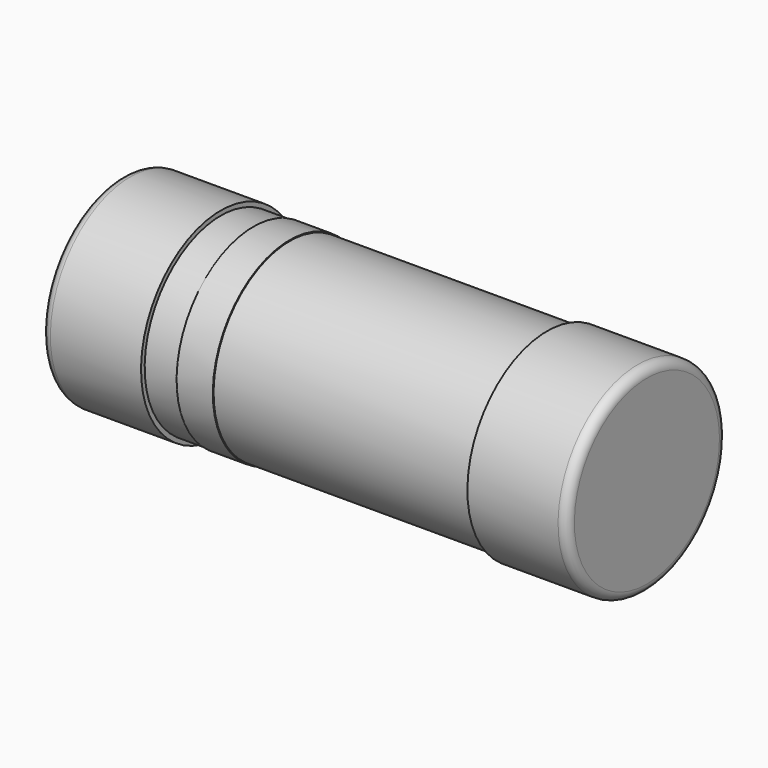
from build123d import *

# Parameters (mm, degrees)
SKETCH_W    = 4.7
SKETCH_H    = 1.05
SKETCH002_W = 0.4
SKETCH002_H = 1.06


with BuildPart() as revolution001:
    # Sketch001 → Revolution001 (revolve)
    with BuildSketch(Plane.XZ):
        with BuildLine():
            Line((-2.8, 0), (-1.8, 0))
            Line((-1.8, 0), (-1.8, 1))
            Line((-1.8, 1), (1.8, 1))
            Line((1.8, 0), (1.8, 1))
            Line((1.8, 0), (2.8, 0))
            ThreePointArc((2.8, 0), (2.870711, 0.029289), (2.9, 0.1))
            Line((2.9, 0.1), (2.9, 1.1))
            Line((-2.9, 1.1), (2.9, 1.1))
            Line((-2.9, 1.1), (-2.9, 0.1))
            ThreePointArc((-2.9, 0.1), (-2.870711, 0.029289), (-2.8, 0))
        make_face()
    revolve(axis=Axis((-7.1, 0, 1.1), (1, 0, 0)))


with BuildPart() as revolution:
    # Sketch → Revolution (revolve)
    with BuildSketch(Plane.XZ):
        with Locations((0, 0.575)):
            Rectangle(SKETCH_W, SKETCH_H)
    revolve(axis=Axis((-15.061842, 0, 1.1), (1, 0, 0)))


with BuildPart() as obj1:
    # Sketch002 → Revolution002 (revolve)
    with BuildSketch(Plane.XZ):
        with Locations((-1.24, 0.57)):
            Rectangle(SKETCH002_W, SKETCH002_H)
    revolve(axis=Axis((-15.061842, 0, 1.1), (1, 0, 0)))

    # Fusion: union Revolution001, Revolution
    add(revolution001.part)
    add(revolution.part)


solid = obj1.part
